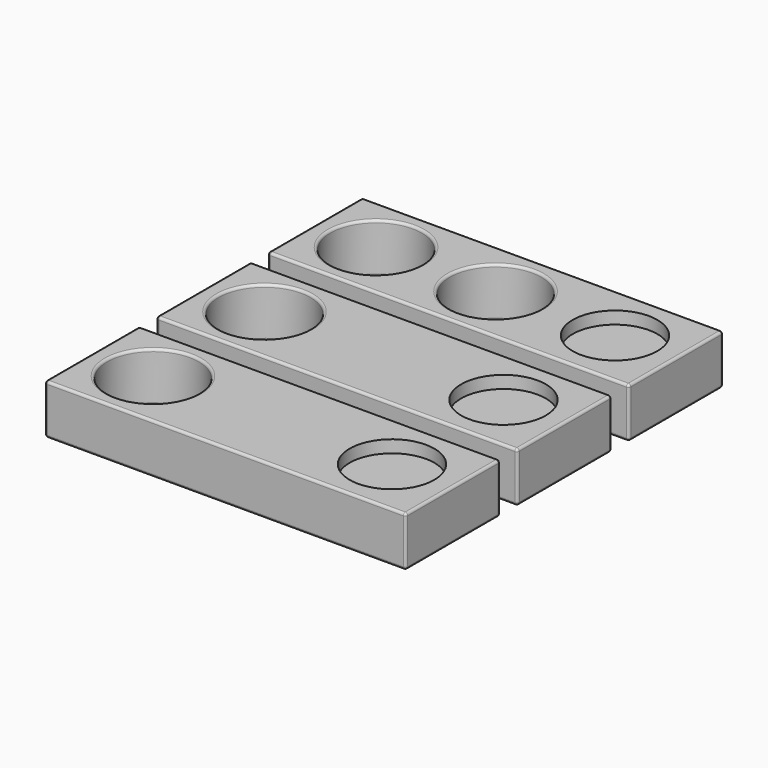
from build123d import *

# Parameters (mm, degrees)
F0_W     = 72.5
F0_H     = 23.7
F0_R     = 9.2
F1_DEPTH = 10
F0_R_2   = 8.5
F2_DEPTH = 2.5
F3_R     = 8.5
F4_DEPTH = 2.5
F5_R     = 0.5
F5_2_R   = 0.5
F5_3_R   = 0.5
F5_4_R   = 0.5
F5_5_R   = 0.5
F5_6_R   = 0.5
F6_R     = 0.5
F6_2_R   = 0.5
F6_3_R   = 0.5
F6_4_R   = 0.5


with BuildPart() as f1:
    # F0 (on Top) → F1 (new body)
    with BuildSketch(Plane.XY):
        with Locations((36.25, -11.85)):
            Rectangle(F0_W, F0_H)
        with Locations((12.25, -11.85)):
            Circle(F0_R, mode=Mode.SUBTRACT)
        with Locations((36.25, -11.85)):
            Circle(F0_R, mode=Mode.SUBTRACT)
    extrude(amount=F1_DEPTH)


with BuildPart() as f1b:
    # F0 (on Top) → F1, piece 2 (new body)
    with BuildSketch(Plane.XY):
        with Locations((36.25, -39.85)):
            Rectangle(F0_W, F0_H)
        with Locations((12.25, -39.85)):
            Circle(F0_R, mode=Mode.SUBTRACT)
        with Locations((36.25, -39.85)):
            Circle(F0_R_2, mode=Mode.SUBTRACT)
        with Locations((36.25, -39.85)):
            Circle(F0_R_2)
    extrude(amount=F1_DEPTH)


with BuildPart() as f1c:
    # F0 (on Top) → F1, piece 3 (new body)
    with BuildSketch(Plane.XY):
        with Locations((36.25, -67.85)):
            Rectangle(F0_W, F0_H)
        with Locations((12.25, -67.85)):
            Circle(F0_R, mode=Mode.SUBTRACT)
        with Locations((36.25, -67.85)):
            Circle(F0_R_2, mode=Mode.SUBTRACT)
        with Locations((36.25, -67.85)):
            Circle(F0_R_2)
    extrude(amount=F1_DEPTH)


with BuildPart() as f1d:
    # F0 (on Top) → F1, piece 4 (new body)
    with BuildSketch(Plane.XY):
        with Locations((36.25, -95.85)):
            Rectangle(F0_W, F0_H)
        with Locations((12.25, -95.85)):
            Circle(F0_R_2, mode=Mode.SUBTRACT)
        with Locations((36.25, -95.85)):
            Circle(F0_R, mode=Mode.SUBTRACT)
        with Locations((12.25, -95.85)):
            Circle(F0_R_2)
    extrude(amount=F1_DEPTH)


with BuildPart() as f1e:
    # F0 (on Top) → F1, piece 5 (new body)
    with BuildSketch(Plane.XY):
        with Locations((36.25, -123.85)):
            Rectangle(F0_W, F0_H)
        with Locations((36.25, -123.85)):
            Circle(F0_R_2, mode=Mode.SUBTRACT)
        with Locations((36.25, -123.85)):
            Circle(F0_R_2)
    extrude(amount=F1_DEPTH)


with BuildPart() as f1f:
    # F0 (on Top) → F1, piece 6 (new body)
    with BuildSketch(Plane.XY):
        with Locations((36.25, -151.85)):
            Rectangle(F0_W, F0_H)
        with Locations((12.25, -151.85)):
            Circle(F0_R_2, mode=Mode.SUBTRACT)
        with Locations((12.25, -151.85)):
            Circle(F0_R_2)
    extrude(amount=F1_DEPTH)


with BuildPart() as f2_tool:
    # F0 (on Top) → F2 (new body)
    with BuildSketch(Plane.XY):
        with Locations((12.25, -151.85)):
            Circle(F0_R_2)
        with Locations((36.25, -123.85)):
            Circle(F0_R_2)
        with Locations((12.25, -95.85)):
            Circle(F0_R_2)
        with Locations((36.25, -67.85)):
            Circle(F0_R_2)
        with Locations((36.25, -39.85)):
            Circle(F0_R_2)
    extrude(amount=F2_DEPTH)


with BuildPart() as f1b_1:
    add(f1b.part)

    # F2: cut by f2_tool
    add(f2_tool.part, mode=Mode.SUBTRACT)


with BuildPart() as f1c_1:
    add(f1c.part)

    # F2: cut by f2_tool
    add(f2_tool.part, mode=Mode.SUBTRACT)


with BuildPart() as f1d_1:
    add(f1d.part)

    # F2: cut by f2_tool
    add(f2_tool.part, mode=Mode.SUBTRACT)


with BuildPart() as f1e_1:
    add(f1e.part)

    # F2: cut by f2_tool
    add(f2_tool.part, mode=Mode.SUBTRACT)


with BuildPart() as f1f_1:
    add(f1f.part)

    # F2: cut by f2_tool
    add(f2_tool.part, mode=Mode.SUBTRACT)


with BuildPart() as f4_tool:
    # F3 (on face) → F4 (new body)
    with BuildSketch(Plane.XY.offset(10)):
        with Locations((12.25, -123.85)):
            Circle(F3_R)
        with Locations((36.25, -151.85)):
            Circle(F3_R)
        with Locations((60.25, -151.85)):
            Circle(F3_R)
        with Locations((60.25, -123.85)):
            Circle(F3_R)
        with Locations((60.25, -95.85)):
            Circle(F3_R)
        with Locations((60.25, -67.85)):
            Circle(F3_R)
        with Locations((60.25, -39.85)):
            Circle(F3_R)
        with Locations((60.25, -11.85)):
            Circle(F3_R)
    extrude(amount=-F4_DEPTH)


with BuildPart() as f1_1:
    add(f1.part)

    # F4: cut by f4_tool
    add(f4_tool.part, mode=Mode.SUBTRACT)

    # F5#6
    f5_6_edges = [f1_1.edges().sort_by_distance(p)[0] for p in [
        (72.5, -23.7, 5),
        (72.5, 0, 5),
        (72.5, -11.85, 0),
        (72.5, -11.85, 10),
        (0, 0, 5),
        (36.25, 0, 0),
        (36.25, 0, 10),
        (0, -23.7, 5),
        (0, -11.85, 0),
        (0, -11.85, 10),
        (36.25, -23.7, 0),
        (36.25, -23.7, 10),
    ]]
    fillet(f5_6_edges, radius=F5_6_R)

    # F6#2
    f6_2_edges = [f1_1.edges().sort_by_distance(p)[0] for p in [
        (21.45, -11.85, 5),
        (3.05, -11.85, 0),
        (3.05, -11.85, 10),
        (45.45, -11.85, 5),
        (27.05, -11.85, 0),
        (27.05, -11.85, 10),
    ]]
    fillet(f6_2_edges, radius=F6_2_R)


with BuildPart() as f1b_2:
    add(f1b_1.part)

    # F4: cut by f4_tool
    add(f4_tool.part, mode=Mode.SUBTRACT)

    # F5#5
    f5_5_edges = [f1b_2.edges().sort_by_distance(p)[0] for p in [
        (72.5, -51.7, 5),
        (72.5, -28, 5),
        (72.5, -39.85, 0),
        (72.5, -39.85, 10),
        (0, -28, 5),
        (0, -51.7, 5),
        (0, -39.85, 0),
        (0, -39.85, 10),
        (36.25, -28, 0),
        (36.25, -28, 10),
        (36.25, -51.7, 0),
        (36.25, -51.7, 10),
    ]]
    fillet(f5_5_edges, radius=F5_5_R)

    # F6
    f6_edges = [f1b_2.edges().sort_by_distance(p)[0] for p in [
        (21.45, -39.85, 5),
        (3.05, -39.85, 0),
        (3.05, -39.85, 10),
    ]]
    fillet(f6_edges, radius=F6_R)


with BuildPart() as f1c_2:
    add(f1c_1.part)

    # F4: cut by f4_tool
    add(f4_tool.part, mode=Mode.SUBTRACT)

    # F5#4
    f5_4_edges = [f1c_2.edges().sort_by_distance(p)[0] for p in [
        (72.5, -79.7, 5),
        (72.5, -56, 5),
        (72.5, -67.85, 0),
        (72.5, -67.85, 10),
        (0, -56, 5),
        (0, -79.7, 5),
        (0, -67.85, 0),
        (0, -67.85, 10),
        (36.25, -56, 0),
        (36.25, -56, 10),
        (36.25, -79.7, 0),
        (36.25, -79.7, 10),
    ]]
    fillet(f5_4_edges, radius=F5_4_R)

    # F6#3
    f6_3_edges = [f1c_2.edges().sort_by_distance(p)[0] for p in [
        (21.45, -67.85, 5),
        (3.05, -67.85, 0),
        (3.05, -67.85, 10),
    ]]
    fillet(f6_3_edges, radius=F6_3_R)


with BuildPart() as f1d_2:
    add(f1d_1.part)

    # F4: cut by f4_tool
    add(f4_tool.part, mode=Mode.SUBTRACT)

    # F5#3
    f5_3_edges = [f1d_2.edges().sort_by_distance(p)[0] for p in [
        (72.5, -107.7, 5),
        (72.5, -84, 5),
        (72.5, -95.85, 0),
        (72.5, -95.85, 10),
        (0, -84, 5),
        (0, -107.7, 5),
        (0, -95.85, 0),
        (0, -95.85, 10),
        (36.25, -84, 0),
        (36.25, -84, 10),
        (36.25, -107.7, 0),
        (36.25, -107.7, 10),
    ]]
    fillet(f5_3_edges, radius=F5_3_R)

    # F6#4
    f6_4_edges = [f1d_2.edges().sort_by_distance(p)[0] for p in [
        (45.45, -95.85, 5),
        (27.05, -95.85, 0),
        (27.05, -95.85, 10),
    ]]
    fillet(f6_4_edges, radius=F6_4_R)


with BuildPart() as f1e_2:
    add(f1e_1.part)

    # F4: cut by f4_tool
    add(f4_tool.part, mode=Mode.SUBTRACT)

    # F5#2
    f5_2_edges = [f1e_2.edges().sort_by_distance(p)[0] for p in [
        (72.5, -135.7, 5),
        (72.5, -112, 5),
        (72.5, -123.85, 0),
        (72.5, -123.85, 10),
        (0, -112, 5),
        (0, -135.7, 5),
        (0, -123.85, 0),
        (0, -123.85, 10),
        (36.25, -112, 0),
        (36.25, -112, 10),
        (36.25, -135.7, 0),
        (36.25, -135.7, 10),
    ]]
    fillet(f5_2_edges, radius=F5_2_R)


with BuildPart() as f1f_2:
    add(f1f_1.part)

    # F4: cut by f4_tool
    add(f4_tool.part, mode=Mode.SUBTRACT)

    # F5
    f5_edges = [f1f_2.edges().sort_by_distance(p)[0] for p in [
        (0, -163.7, 5),
        (72.5, -163.7, 5),
        (36.25, -163.7, 0),
        (36.25, -163.7, 10),
        (72.5, -140, 5),
        (72.5, -151.85, 0),
        (72.5, -151.85, 10),
        (0, -140, 5),
        (0, -151.85, 0),
        (0, -151.85, 10),
        (36.25, -140, 0),
        (36.25, -140, 10),
    ]]
    fillet(f5_edges, radius=F5_R)


solid = Compound([f1_1.part, f1b_2.part, f1c_2.part])
